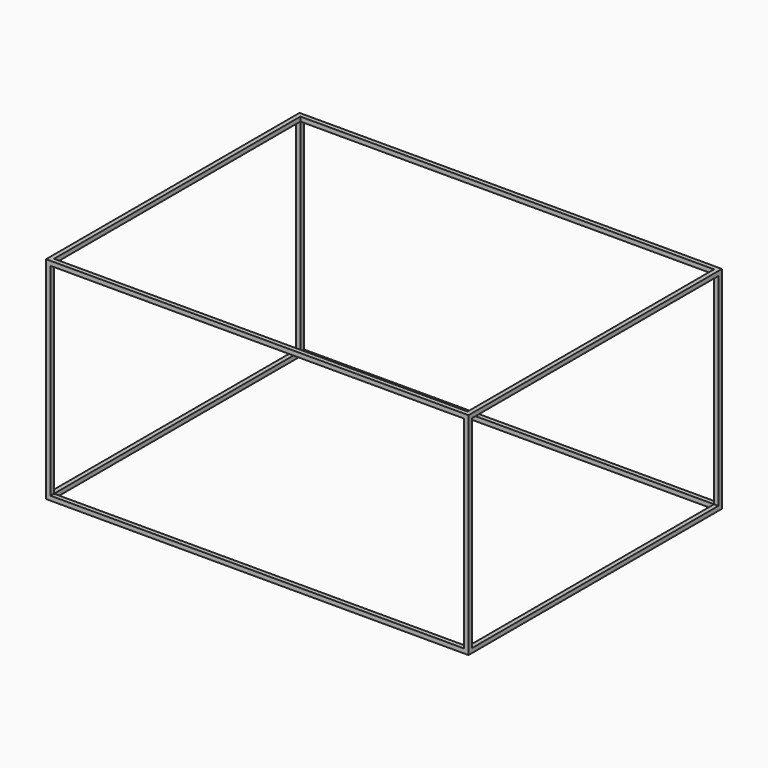
from build123d import *

# Parameters (mm, degrees)
F0_W     = 2400
F0_H     = 1200
F1_DEPTH = 1800
F2_W     = 2350
F2_H     = 1150
F3_DEPTH = 1800.001
F4_W     = 1750
F4_H     = 1150
F5_DEPTH = 2400.001
F6_W     = 2350
F6_H     = 1750
F7_DEPTH = 1200.001


with BuildPart() as f1:
    # F0 (on Front) → F1 (new body)
    with BuildSketch(Plane.XZ):
        with Locations((1200, 600)):
            Rectangle(F0_W, F0_H)
    extrude(amount=F1_DEPTH)

    # F2 (on face) → F3 (cut, through all)
    with BuildSketch(Plane.XZ.offset(1800)):
        with Locations((1200, 600)):
            Rectangle(F2_W, F2_H)
    extrude(amount=-F3_DEPTH, mode=Mode.SUBTRACT)

    # F4 (on face) → F5 (cut, through all)
    with BuildSketch(Plane.YZ.offset(2400)):
        with Locations((-900, 600)):
            Rectangle(F4_W, F4_H)
    extrude(amount=-F5_DEPTH, mode=Mode.SUBTRACT)

    # F6 (on face) → F7 (cut, through all)
    with BuildSketch(Plane.XY.offset(1200)):
        with Locations((1200, -900)):
            Rectangle(F6_W, F6_H)
    extrude(amount=-F7_DEPTH, mode=Mode.SUBTRACT)


solid = f1.part
